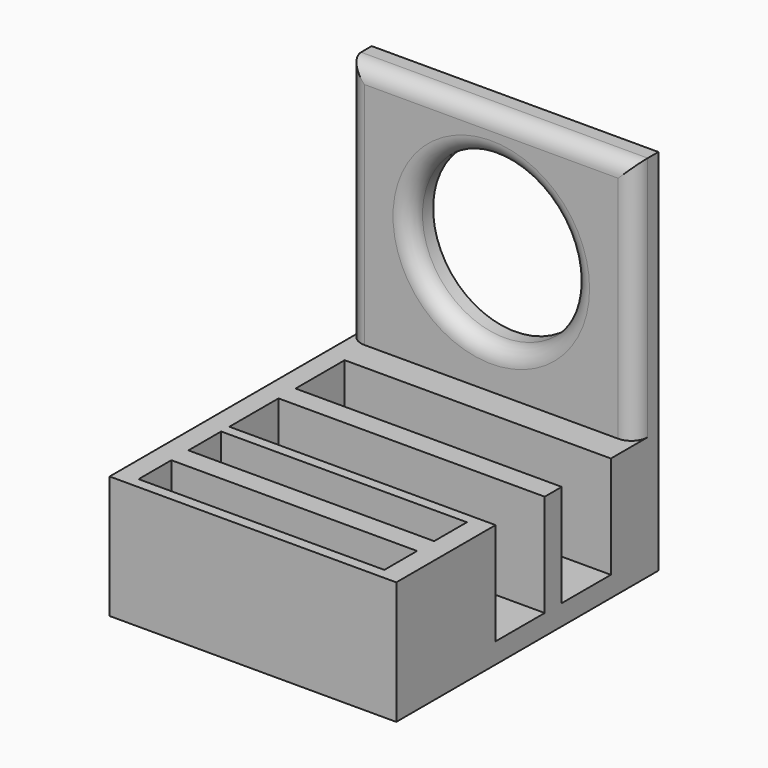
from build123d import *

# Parameters (mm, degrees)
F1_DEPTH  = 101.6
F3_DEPTH  = 31.75
F4_W      = 19.05
F4_H      = 31.75
F5_DEPTH  = 88.901
F6_W      = 88.9
F6_H      = 9.2075
F7_DEPTH  = 76.2
F8_W      = 19.05
F8_H      = 31.75
F9_DEPTH  = 6.35
F10_R     = 25.4
F11_DEPTH = 9.2085
F12_R     = 5.08


with BuildPart() as f1:
    # F0 (on Front) → F1 (new body)
    with BuildSketch(Plane.XZ):
        Polygon((44.45, 19.05), (0, 19.05), (-44.45, 19.05), (-44.45, 0), (-44.45, -19.05), (0, -19.05), (44.45, -19.05), (44.45, 0), align=None)
    extrude(amount=F1_DEPTH)

    # F2 (on face) → F3 (cut)
    with BuildSketch(Plane.XY.offset(19.05)):
        Polygon((38.1, -85.598), (0, -85.598), (-38.1, -85.598), (-38.1, -98.298), (0, -98.298), (38.1, -98.298), align=None)
        Polygon((-38.1, -78.994), (0, -78.994), (38.1, -78.994), (38.1, -66.294), (0, -66.294), (-38.1, -66.294), align=None)
    extrude(amount=-F3_DEPTH, mode=Mode.SUBTRACT)

    # F4 (on face) → F5 (cut, through all)
    with BuildSketch(Plane(origin=(-44.45, 0, 0), x_dir=(0, -1, 0), z_dir=(-1, 0, 0))):
        with Locations((53.594, 3.175)):
            Rectangle(F4_W, F4_H)
        with Locations((27.94, 3.175)):
            Rectangle(F4_W, F4_H)
    extrude(amount=-F5_DEPTH, mode=Mode.SUBTRACT)

    # F6 (on face) → F7 (join)
    with BuildSketch(Plane.XY.offset(19.05)):
        with Locations((0, -4.60375)):
            Rectangle(F6_W, F6_H)
    extrude(amount=F7_DEPTH)

    # F8 (on face) → F9 (join, through all)
    with BuildSketch(Plane(origin=(-44.45, 0, 0), x_dir=(0, -1, 0), z_dir=(-1, 0, 0))):
        with Locations((27.94, 3.175)):
            Rectangle(F8_W, F8_H)
        with Locations((53.594, 3.175)):
            Rectangle(F8_W, F8_H)
    extrude(amount=-F9_DEPTH)

    # F10 (on face) → F11 (cut, through all)
    with BuildSketch(Plane.XZ.offset(9.2075)):
        with Locations((0, 57.15)):
            Circle(F10_R)
    extrude(amount=-F11_DEPTH, mode=Mode.SUBTRACT)

    # F12
    f12_edges = [f1.edges().sort_by_distance(p)[0] for p in [
        (0, -9.2075, 95.25),
        (-44.45, -9.2075, 57.15),
        (44.45, -9.2075, 57.15),
        (-25.4, -9.2075, 57.15),
    ]]
    fillet(f12_edges, radius=F12_R)


solid = f1.part
